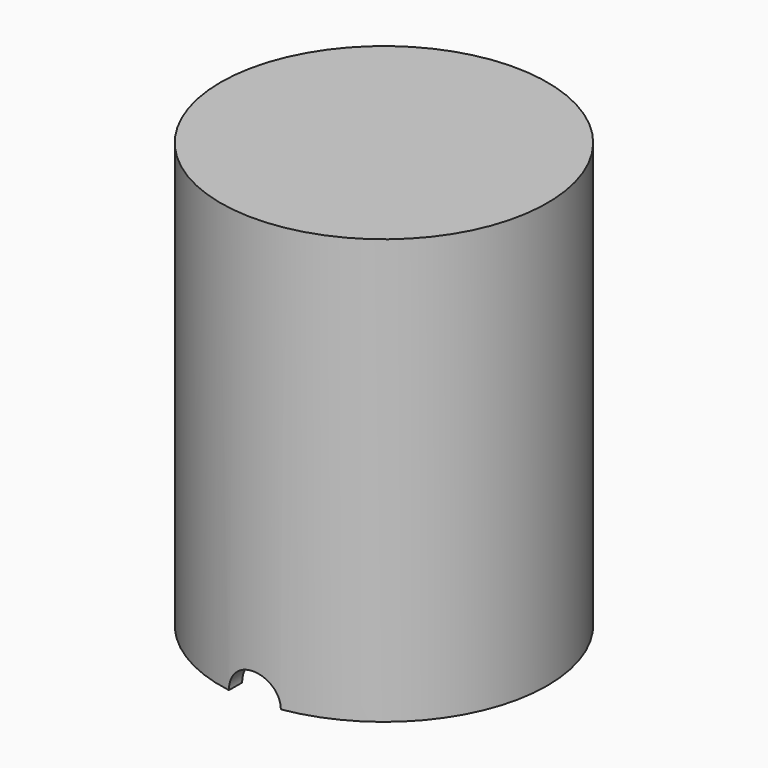
from build123d import *

# Parameters (mm, degrees)
F0_W          = 18
F0_H          = 2
F2_R          = 3.175
F3_DEPTH      = 20.001
F3_DEPTH_BACK = 20.001


with BuildPart() as f1:
    # F0 (on Front) → F1 (revolve)
    with BuildSketch(Plane.XZ):
        with Locations((-9, 51)):
            Rectangle(F0_W, F0_H)
        Polygon((-20, 0), (-18, 0), (-18, 50), (-18, 52), (-20, 52), align=None)
    revolve(axis=Axis((0, 0, 51), (0, 0, -1)))

    # F2 (on Front) → F3 (cut, two sides)
    with BuildSketch(Plane.XZ) as f3_sk:
        Circle(F2_R)
    extrude(amount=F3_DEPTH, mode=Mode.SUBTRACT)
    extrude(f3_sk.sketch, amount=-F3_DEPTH_BACK, mode=Mode.SUBTRACT)


solid = f1.part
